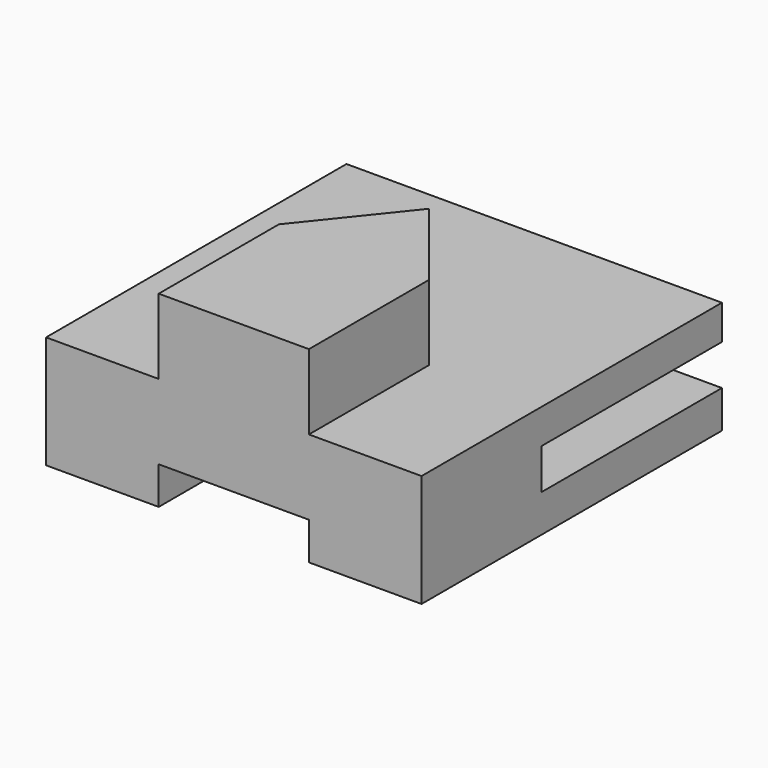
from build123d import *

# Parameters (mm, degrees)
F0_W     = 50
F0_H     = 50
F1_DEPTH = 15
F3_DEPTH = 10
F5_DEPTH = 5
F6_W     = 30
F6_H     = 5.4
F7_DEPTH = 30


with BuildPart() as f1:
    # F0 (on Top) → F1 (new body)
    with BuildSketch(Plane.XY):
        with Locations((25, -25)):
            Rectangle(F0_W, F0_H)
    extrude(amount=F1_DEPTH)

    # F2 (on face) → F3 (join)
    with BuildSketch(Plane.XY.offset(15)):
        Polygon((15, -30), (15, -50), (35, -50), (35, -30), (25, -17.510004), align=None)
    extrude(amount=F3_DEPTH)

    # F4 (on face) → F5 (cut)
    with BuildSketch(Plane(origin=(0, 0, 0), x_dir=(1, 0, 0), z_dir=(0, 0, -1))):
        Polygon((35, 50), (15, 50), (15, 30), (25, 17.510004), (35, 30), align=None)
    extrude(amount=-F5_DEPTH, mode=Mode.SUBTRACT)

    # F6 (on face) → F7 (cut)
    with BuildSketch(Plane.YZ.offset(50)):
        with Locations((-15, 7.7)):
            Rectangle(F6_W, F6_H)
    extrude(amount=-F7_DEPTH, mode=Mode.SUBTRACT)


solid = f1.part
